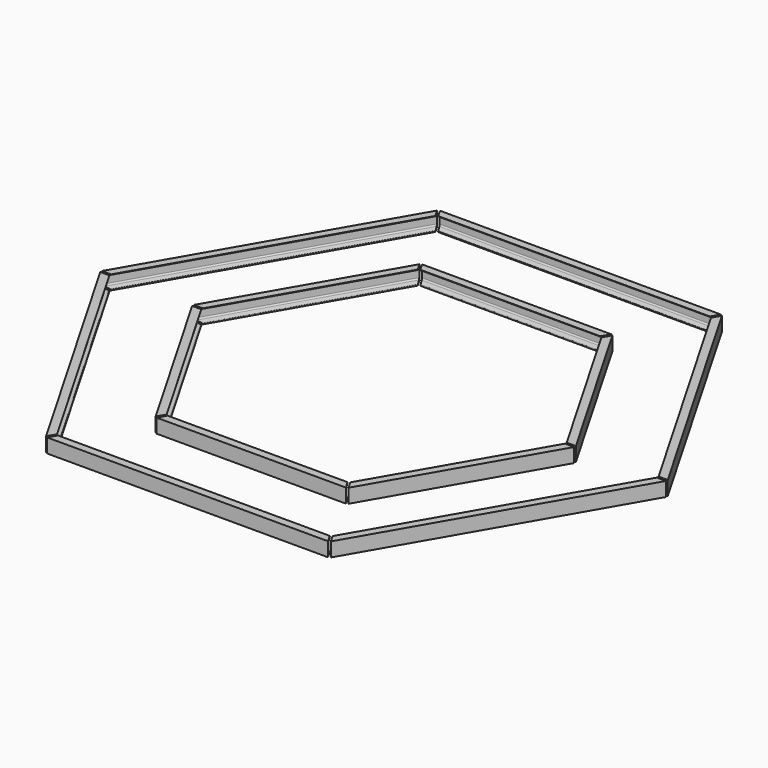
from build123d import *

# Parameters (mm, degrees)
F7_DEPTH  = 794.5
F9_DEPTH  = 80
F11_DEPTH = 535
F13_DEPTH = 80
F14_COUNT = 6


with BuildPart() as f7:
    # F6 (on 3pt) → F7 (new body, symmetric)
    with BuildSketch(Plane(origin=(0, 0, 0), x_dir=(0.8660254038, -0.5, 0), z_dir=(-0.5, -0.8660254038, 0))):
        with BuildLine():
            Line((1343.6406460551, 20), (1388.6406460551, 20))
            Line((1388.6406460551, 20), (1388.6406460551, 100))
            Line((1388.6406460551, 100), (1343.6406460551, 100))
            ThreePointArc((1343.6406460551, 100), (1344.5741539154, 97.4316102404), (1346.9389590336, 96.0620264953))
            Line((1346.9389590336, 96.0620264953), (1376.0440200981, 90.8759470094))
            ThreePointArc((1376.0440200981, 90.8759470094), (1380.7736303345, 88.1367795191), (1382.6406460551, 83))
            Line((1382.6406460551, 83), (1382.6406460551, 37))
            ThreePointArc((1382.6406460551, 37), (1380.7736303345, 31.8632204809), (1376.0440200981, 29.1240529906))
            Line((1376.0440200981, 29.1240529906), (1346.9389590336, 23.9379735047))
            ThreePointArc((1346.9389590336, 23.9379735047), (1344.5741539154, 22.5683897596), (1343.6406460551, 20))
        make_face()
    extrude(amount=F7_DEPTH, both=True)

    # F8 (on face) → F9 (cut, through all)
    with BuildSketch(Plane.XY.offset(100)):
        Polygon((766.3769330411, -1359.8775063343), (805.3480762114, -1382.3775063343), (779.3673140978, -1337.3775063343), align=None)
        Polygon((1547.8865519843, -6.2631397208), (1599.8480762114, -6.2631397208), (1560.8769330411, 16.2368602792), align=None)
    extrude(amount=-F9_DEPTH, mode=Mode.SUBTRACT)


with BuildPart() as f11:
    # F10 (on 3pt) → F11 (new body, symmetric)
    with BuildSketch(Plane(origin=(0, 0, 0), x_dir=(0.8660254038, -0.5, 0), z_dir=(-0.5, -0.8660254038, 0))):
        with BuildLine():
            Line((893.6471820493, 20), (938.6471820493, 20))
            Line((938.6471820493, 20), (938.6471820493, 100))
            Line((938.6471820493, 100), (893.6471820493, 100))
            ThreePointArc((893.6471820493, 100), (894.5806899096, 97.4316102404), (896.9454950279, 96.0620264953))
            Line((896.9454950279, 96.0620264953), (926.0505560923, 90.8759470094))
            ThreePointArc((926.0505560923, 90.8759470094), (930.7801663288, 88.1367795191), (932.6471820493, 83))
            Line((932.6471820493, 83), (932.6471820493, 37))
            ThreePointArc((932.6471820493, 37), (930.7856808278, 31.8698116265), (926.0674738626, 29.1270862341))
            Line((926.0674738626, 29.1270862341), (897.6471820493, 24))
            ThreePointArc((897.6471820493, 24), (894.8187549246, 22.8284271247), (893.6471820493, 20))
        make_face()
    extrude(amount=F11_DEPTH, both=True)

    # F12 (on face) → F13 (cut, through all)
    with BuildSketch(Plane.XY.offset(100)):
        Polygon((545.3923048454, -932.6471820493), (519.4115427319, -887.6471820494), (506.4211616751, -910.1471820493), align=None)
        Polygon((1041.4211616751, 16.5), (1028.4307806183, -6), (1080.3923048454, -6), align=None)
    extrude(amount=-F13_DEPTH, mode=Mode.SUBTRACT)


with BuildPart() as f14_1:
    # F14: instance of F7
    add(f7.part.rotate(Axis((0, 0, 165.4320955276), (0, 0, 1)), 1 * 360 / F14_COUNT))


with BuildPart() as f14_2:
    # F14: instance of F7
    add(f7.part.rotate(Axis((0, 0, 165.4320955276), (0, 0, 1)), 2 * 360 / F14_COUNT))


with BuildPart() as f14_3:
    # F14: instance of F7
    add(f7.part.rotate(Axis((0, 0, 165.4320955276), (0, 0, 1)), 3 * 360 / F14_COUNT))


with BuildPart() as f14_4:
    # F14: instance of F7
    add(f7.part.rotate(Axis((0, 0, 165.4320955276), (0, 0, 1)), 4 * 360 / F14_COUNT))


with BuildPart() as f14_5:
    # F14: instance of F7
    add(f7.part.rotate(Axis((0, 0, 165.4320955276), (0, 0, 1)), 5 * 360 / F14_COUNT))


with BuildPart() as f14_6:
    # F14: instance of F11
    add(f11.part.rotate(Axis((0, 0, 165.4320955276), (0, 0, 1)), 1 * 360 / F14_COUNT))


with BuildPart() as f14_7:
    # F14: instance of F11
    add(f11.part.rotate(Axis((0, 0, 165.4320955276), (0, 0, 1)), 2 * 360 / F14_COUNT))


with BuildPart() as f14_8:
    # F14: instance of F11
    add(f11.part.rotate(Axis((0, 0, 165.4320955276), (0, 0, 1)), 3 * 360 / F14_COUNT))


with BuildPart() as f14_9:
    # F14: instance of F11
    add(f11.part.rotate(Axis((0, 0, 165.4320955276), (0, 0, 1)), 4 * 360 / F14_COUNT))


with BuildPart() as f14_10:
    # F14: instance of F11
    add(f11.part.rotate(Axis((0, 0, 165.4320955276), (0, 0, 1)), 5 * 360 / F14_COUNT))


solid = Compound([f7.part, f11.part, f14_1.part, f14_2.part, f14_3.part, f14_4.part, f14_5.part, f14_6.part, f14_7.part, f14_8.part, f14_9.part, f14_10.part])
